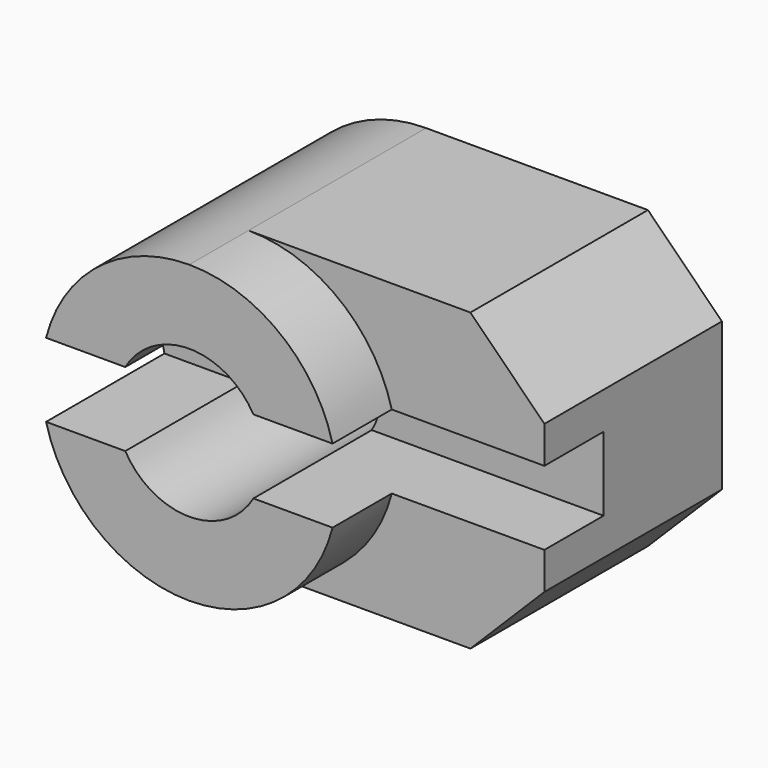
from build123d import *

# Parameters (mm, degrees)
F0_W     = 30
F0_H     = 20
F1_DEPTH = 20
F3_DEPTH = 20.001
F4_DEPTH = 10
F5_DEPTH = 5


with BuildPart() as f1:
    # F0 (on Top) → F1 (new body)
    with BuildSketch(Plane.XY):
        with Locations((15, 10)):
            Rectangle(F0_W, F0_H)
    extrude(amount=F1_DEPTH)

    # F2 (on face) → F3 (cut, through all)
    with BuildSketch(Plane.XZ):
        with BuildLine():
            ThreePointArc((0.3175416345, 12.5), (3.876275643, 17.9056941504), (10, 20))
            Line((10, 20), (0, 20))
            Line((0, 20), (0, 10.0000000432))
            ThreePointArc((0, 10.0000000432), (0.07970304, 11.2600429462), (0.3175416345, 12.5))
        make_face()
        with BuildLine():
            ThreePointArc((0.3175416345, 7.5), (0.0797030346, 8.7399570966), (0, 10.0000000432))
            Line((0, 10.0000000432), (0, 0))
            Line((0, 0), (10, 0))
            ThreePointArc((10, 0), (3.876275643, 2.0943058496), (0.3175416345, 7.5))
        make_face()
        with BuildLine():
            ThreePointArc((15, 10), (14.8296291314, 11.2940952255), (14.3301270189, 12.5))
            ThreePointArc((14.3301270189, 12.5), (10, 15), (5.6698729811, 12.5))
            ThreePointArc((5.6698729811, 12.5), (5, 10), (5.6698729811, 7.5))
            ThreePointArc((5.6698729811, 7.5), (10, 5), (14.3301270189, 7.5))
            ThreePointArc((14.3301270189, 7.5), (14.8296291314, 8.7059047745), (15, 10))
        make_face()
        Polygon((30, 20), (25, 20), (30, 15), align=None)
        Polygon((30, 0), (30, 5), (25, 0), align=None)
    extrude(amount=-F3_DEPTH, mode=Mode.SUBTRACT)

    # F2 (on face) → F4 (cut)
    with BuildSketch(Plane.XZ):
        with BuildLine():
            Line((30, 7.5), (30, 12.5))
            Line((30, 12.5), (19.6824583655, 12.5))
            Line((19.6824583655, 12.5), (14.3301270189, 12.5))
            ThreePointArc((14.3301270189, 12.5), (14.8296291314, 11.2940952255), (15, 10))
            ThreePointArc((15, 10), (14.8296291314, 8.7059047745), (14.3301270189, 7.5))
            Line((14.3301270189, 7.5), (19.6824583655, 7.5))
            Line((19.6824583655, 7.5), (30, 7.5))
        make_face()
        with BuildLine():
            Line((5.6698729811, 12.5), (0.3175416345, 12.5))
            ThreePointArc((0.3175416345, 12.5), (0.07970304, 11.2600429462), (0, 10.0000000432))
            ThreePointArc((0, 10.0000000432), (0.0797030346, 8.7399570966), (0.3175416345, 7.5))
            Line((0.3175416345, 7.5), (5.6698729811, 7.5))
            ThreePointArc((5.6698729811, 7.5), (5, 10), (5.6698729811, 12.5))
        make_face()
    extrude(amount=-F4_DEPTH, mode=Mode.SUBTRACT)

    # F2 (on face) → F5 (cut)
    with BuildSketch(Plane.XZ):
        with BuildLine():
            Line((30, 5), (30, 7.5))
            Line((30, 7.5), (19.6824583655, 7.5))
            ThreePointArc((19.6824583655, 7.5), (16.123724357, 2.0943058496), (10, 0))
            Line((10, 0), (25, 0))
            Line((25, 0), (30, 5))
        make_face()
        with BuildLine():
            Line((30, 15), (25, 20))
            Line((25, 20), (10, 20))
            ThreePointArc((10, 20), (16.123724357, 17.9056941504), (19.6824583655, 12.5))
            Line((19.6824583655, 12.5), (30, 12.5))
            Line((30, 12.5), (30, 15))
        make_face()
    extrude(amount=-F5_DEPTH, mode=Mode.SUBTRACT)


solid = f1.part
